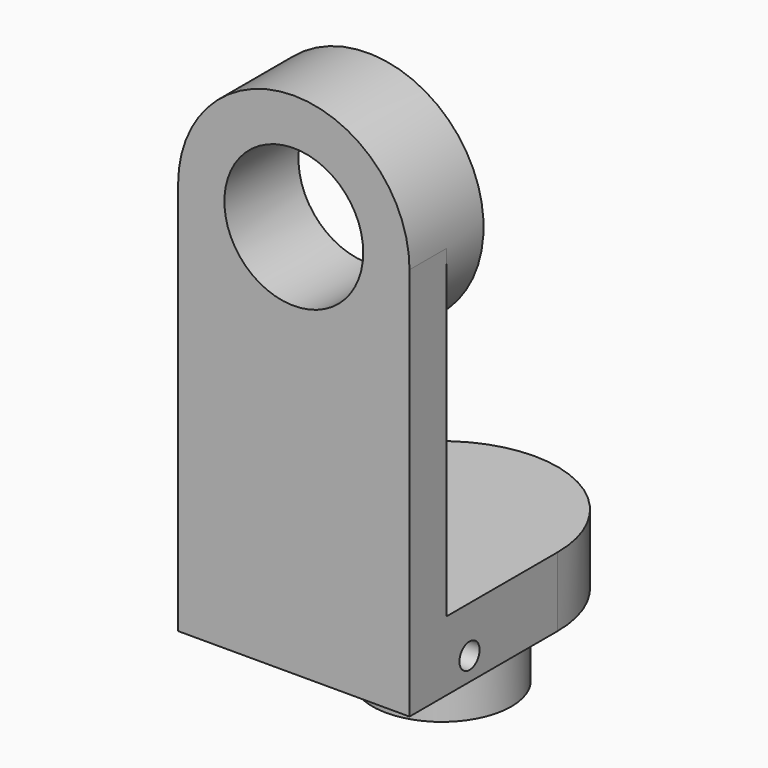
from build123d import *

# Parameters (mm, degrees)
F0_W      = 1.25
F0_H      = 2.125
F1_DEPTH  = 0.25
F3_DEPTH  = 0.5
F5_DEPTH  = 25
F7_DEPTH  = 0.375
F8_R      = 0.375
F9_DEPTH  = 0.44
F10_W     = 0.875
F10_H     = 0.2119794213
F11_DEPTH = 0.315
F12_R     = 0.068
F13_DEPTH = 1.251


with BuildPart() as f1:
    # F0 (on Front) → F1 (new body)
    with BuildSketch(Plane.XZ):
        with Locations((0.625, 1.0625)):
            Rectangle(F0_W, F0_H)
    extrude(amount=F1_DEPTH)

    # F2 (on face) → F3 (join)
    with BuildSketch(Plane.XZ.offset(0.25)):
        with BuildLine():
            Line((1, 2.125), (1.25, 2.125))
            ThreePointArc((1.25, 2.125), (0.625, 2.75), (0, 2.125))
            Line((0, 2.125), (0.25, 2.125))
            ThreePointArc((0.25, 2.125), (0.625, 2.5), (1, 2.125))
        make_face()
        with BuildLine():
            ThreePointArc((0, 2.125), (0.625, 1.5), (1.25, 2.125))
            Line((1.25, 2.125), (1, 2.125))
            ThreePointArc((1, 2.125), (0.625, 1.75), (0.25, 2.125))
            Line((0.25, 2.125), (0, 2.125))
        make_face()
    extrude(amount=-F3_DEPTH)

    # F4 (on face) → F5 (cut)
    with BuildSketch(Plane(origin=(0, 0, 0), x_dir=(-1, 0, 0), z_dir=(0, 1, 0))):
        with BuildLine():
            Line((-0.25, 2.125), (-1, 2.125))
            ThreePointArc((-1, 2.125), (-0.625, 1.75), (-0.25, 2.125))
        make_face()
    extrude(amount=-F5_DEPTH, mode=Mode.SUBTRACT)

    # F6 (on face) → F7 (join)
    with BuildSketch(Plane(origin=(0, 0, 0), x_dir=(1, 0, 0), z_dir=(0, 0, -1))):
        with BuildLine():
            Line((1.25, -0.75), (1.25, 0.25))
            Line((1.25, 0.25), (0, 0.25))
            Line((0, 0.25), (0, -0.75))
            ThreePointArc((0, -0.75), (0.625, -1.375), (1.25, -0.75))
        make_face()
    extrude(amount=-F7_DEPTH)

    # F8 (on face) → F9 (join)
    with BuildSketch(Plane(origin=(0, 0, 0), x_dir=(1, 0, 0), z_dir=(0, 0, -1))):
        with Locations((0.625, -0.75)):
            Circle(F8_R)
    extrude(amount=F9_DEPTH)

    # F10 (on face) → F11 (cut)
    with BuildSketch(Plane(origin=(0, 0, 0), x_dir=(1, 0, 0), z_dir=(0, 0, -1))):
        with Locations((0.6245, -0.1059897106)):
            Rectangle(F10_W, F10_H)
    extrude(amount=-F11_DEPTH, mode=Mode.SUBTRACT)

    # F12 (on face) → F13 (cut, through all)
    with BuildSketch(Plane.YZ.offset(1.25)):
        with Locations((0.155, 0.125)):
            Circle(F12_R)
    extrude(amount=-F13_DEPTH, mode=Mode.SUBTRACT)


solid = f1.part
